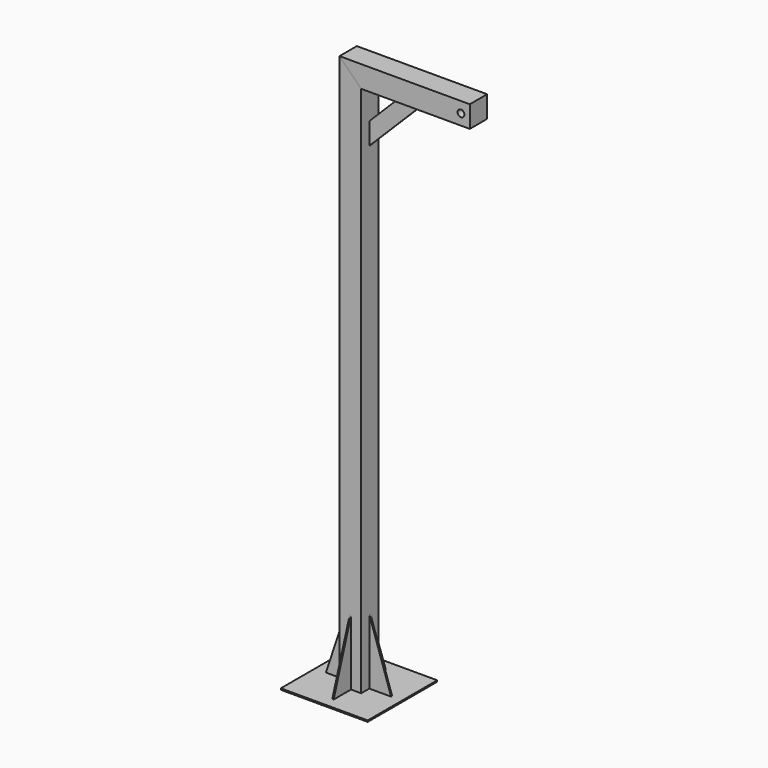
from build123d import *

# Parameters (mm, degrees)
F1_DEPTH  = 50.8
F2_W      = 406.4
F2_H      = 406.4
F3_DEPTH  = 6.35
F6_DEPTH  = 3.175
F7_DEPTH  = 3.175
F8_DEPTH  = 50.8
F10_DEPTH = 50.8
F12_DEPTH = 3.175
F13_R     = 15.875
F14_DEPTH = 127


with BuildPart() as f1:
    # F0 (on Front) → F1 (new body, symmetric)
    with BuildSketch(Plane.XZ):
        Polygon((-50.8, 2590.8), (-50.8, 0), (50.8, 0), (50.8, 2489.2), align=None)
    extrude(amount=F1_DEPTH, both=True)

    # F0 (on Front) → F8 (cut, symmetric)
    with BuildSketch(Plane.XZ):
        Polygon((50.8, 2590.8), (-50.8, 2590.8), (50.8, 2489.2), align=None)
    extrude(amount=F8_DEPTH, both=True, mode=Mode.SUBTRACT)


with BuildPart() as f3:
    # F2 (on face) → F3 (new body)
    with BuildSketch(Plane(origin=(0, 0, 0), x_dir=(1, 0, 0), z_dir=(0, 0, -1))):
        Rectangle(F2_W, F2_H)
    extrude(amount=F3_DEPTH)


with BuildPart() as f6:
    # F5 (on Right) → F6 (new body, symmetric)
    with BuildSketch(Plane.YZ):
        Polygon((152.4, 0), (50.8, 304.8), (50.8, 0), align=None)
    extrude(amount=F6_DEPTH, both=True)


with BuildPart() as f6b:
    # F5 (on Right) → F6, piece 2 (new body, symmetric)
    with BuildSketch(Plane.YZ):
        Polygon((-152.4, 0), (-50.8, 0), (-50.8, 304.8), align=None)
    extrude(amount=F6_DEPTH, both=True)


with BuildPart() as f7:
    # F4 (on Front) → F7 (new body, symmetric)
    with BuildSketch(Plane.XZ):
        Polygon((152.4, 0), (50.8, 304.8), (50.8, 0), align=None)
    extrude(amount=F7_DEPTH, both=True)


with BuildPart() as f7b:
    # F4 (on Front) → F7, piece 2 (new body, symmetric)
    with BuildSketch(Plane.XZ):
        Polygon((-50.8, 0), (-50.8, 304.8), (-152.4, 0), align=None)
    extrude(amount=F7_DEPTH, both=True)


with BuildPart() as f10:
    # F9 (on Front) → F10 (new body, symmetric)
    with BuildSketch(Plane.XZ):
        Polygon((-50.8, 2590.8), (50.8, 2489.2), (558.8, 2489.2), (558.8, 2590.8), align=None)
    extrude(amount=F10_DEPTH, both=True)

    # F13 (on face) → F14 (cut)
    with BuildSketch(Plane.XZ.offset(50.8)):
        with Locations((517.525, 2540)):
            Circle(F13_R)
    extrude(amount=-F14_DEPTH, mode=Mode.SUBTRACT)


with BuildPart() as f12:
    # F11 (on Front) → F12 (new body, symmetric)
    with BuildSketch(Plane.XZ):
        Polygon((304.8, 2489.2), (203.2, 2489.2), (50.8, 2336.8), (50.8, 2235.2), align=None)
    extrude(amount=F12_DEPTH, both=True)


solid = Compound([f1.part, f3.part, f6.part, f6b.part, f7.part, f7b.part, f10.part, f12.part])
